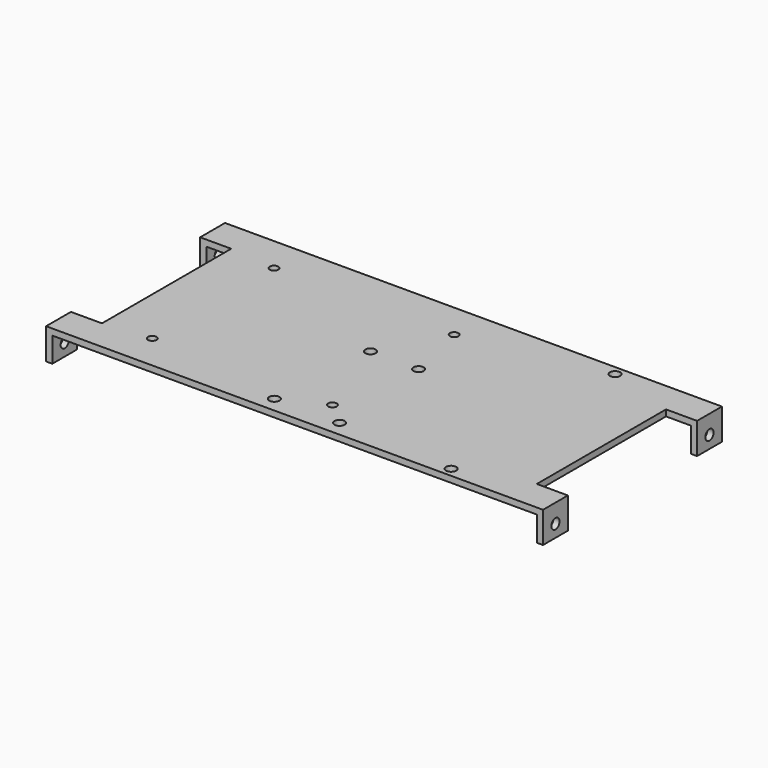
from build123d import *

# Parameters (mm, degrees)
BOX002_W      = 156
BOX002_H      = 72
BOX002_DEPTH  = 8
BOX001_W      = 10
BOX001_H      = 52
BOX001_DEPTH  = 10
BOX_W         = 160
BOX_H         = 72
BOX_DEPTH     = 10
SKETCH_R      = 1.65
HOLE_DEPTH    = 160.001
SKETCH001_R   = 1.65
HOLE001_DEPTH = 10.001
SKETCH002_R   = 1.375
HOLE002_DEPTH = 10.001
SKETCH003_R   = 1.65
HOLE003_DEPTH = 25


with BuildPart() as obj1:
    # Box002 → Box002 (new body)
    with BuildSketch(Plane(origin=(2, 0, 0), x_dir=(1, 0, 0), z_dir=(0, 0, 1))):
        with Locations((78, 36)):
            Rectangle(BOX002_W, BOX002_H)
    extrude(amount=BOX002_DEPTH)


with BuildPart() as obj2:
    # Box001 → Box001 (new body)
    with BuildSketch(Plane(origin=(0, 10, 0), x_dir=(1, 0, 0), z_dir=(0, 0, 1))):
        with Locations((5, 26)):
            Rectangle(BOX001_W, BOX001_H)
    extrude(amount=BOX001_DEPTH)


with BuildPart() as part_mirroring:
    # Part__Mirroring: instance of obj2
    add(obj2.part.mirror(Plane(origin=(80, 0, 0), x_dir=(0, -1, 0), z_dir=(1, 0, 0))))


with BuildPart() as body:
    # Box → Box (new body)
    with BuildSketch(Plane.XY):
        with Locations((80, 36)):
            Rectangle(BOX_W, BOX_H)
    extrude(amount=BOX_DEPTH)

    # Cut: cut obj2
    add(obj2.part, mode=Mode.SUBTRACT)

    # Cut001: cut Part__Mirroring
    add(part_mirroring.part, mode=Mode.SUBTRACT)

    # Cut002: cut obj1
    add(obj1.part, mode=Mode.SUBTRACT)

    # Sketch (on Face1 of BaseFeature) → Hole (cut, through all)
    with BuildSketch(Plane(origin=(0, 0, 0), x_dir=(0, -1, 0), z_dir=(-1, 0, 0))):
        with Locations((-5, 4)):
            Circle(SKETCH_R)
        with Locations((-67, 4)):
            Circle(SKETCH_R)
    extrude(amount=-HOLE_DEPTH, mode=Mode.SUBTRACT)

    # Sketch001 (on Face2 of Hole) → Hole001 (cut, through all)
    with BuildSketch(Plane.XY.offset(10)):
        with Locations((72.25, 40.25)):
            Circle(SKETCH001_R)
        with Locations((87.75, 40.25)):
            Circle(SKETCH001_R)
        with Locations((128, 69)):
            Circle(SKETCH001_R)
        with Locations((128, 3)):
            Circle(SKETCH001_R)
    extrude(amount=-HOLE001_DEPTH, mode=Mode.SUBTRACT)

    # Sketch002 (on Face2 of Hole) → Hole002 (cut, through all)
    with BuildSketch(Plane.XY.offset(10)):
        with Locations((25, 60.5)):
            Circle(SKETCH002_R)
        with Locations((83, 60.5)):
            Circle(SKETCH002_R)
        with Locations((25, 11.5)):
            Circle(SKETCH002_R)
        with Locations((83, 11.5)):
            Circle(SKETCH002_R)
    extrude(amount=-HOLE002_DEPTH, mode=Mode.SUBTRACT)

    # Sketch003 (on Face2 of Hole002) → Hole003 (cut)
    with BuildSketch(Plane.XY.offset(10)):
        with Locations((69.5, 5)):
            Circle(SKETCH003_R)
        with Locations((90.5, 5)):
            Circle(SKETCH003_R)
    extrude(amount=-HOLE003_DEPTH, mode=Mode.SUBTRACT)


solid = body.part
